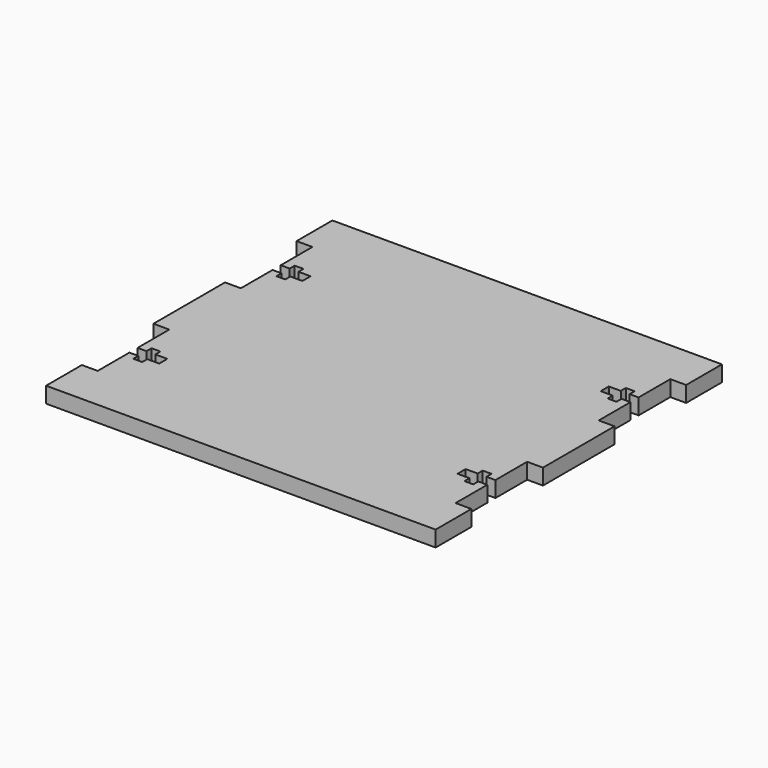
from build123d import *

# Parameters (mm, degrees)
F1_DEPTH = 4.4958


with BuildPart() as f1:
    # F0 (on Top) → F1 (new body)
    with BuildSketch(Plane.XY):
        Polygon((50.8, 50.8), (-50.8, 50.8), (-55.2958, 50.8), (-55.2958, 38.1), (-50.8, 38.1), (-50.8, 26.8478), (-48.26, 26.8478), (-48.26, 28.6385), (-45.75175, 28.6385), (-45.75175, 26.8478), (-42.3418, 26.8478), (-42.3418, 23.9522), (-45.75175, 23.9522), (-45.75175, 22.1615), (-48.26, 22.1615), (-48.26, 23.9522), (-50.8, 23.9522), (-50.8, 12.7), (-55.2958, 12.7), (-55.2958, 0), (-55.2958, -12.7), (-50.8, -12.7), (-50.8, -23.9522), (-48.26, -23.9522), (-48.26, -22.1615), (-45.75175, -22.1615), (-45.75175, -23.9522), (-42.3418, -23.9522), (-42.3418, -26.8478), (-45.75175, -26.8478), (-45.75175, -28.6385), (-48.26, -28.6385), (-48.26, -26.8478), (-50.8, -26.8478), (-50.8, -38.1), (-55.2958, -38.1), (-55.2958, -50.8), (-50.8, -50.8), (50.8, -50.8), (55.2958, -50.8), (55.2958, -38.1), (50.8, -38.1), (50.8, -26.8478), (48.26, -26.8478), (48.26, -28.6385), (45.75175, -28.6385), (45.75175, -26.8478), (42.3418, -26.8478), (42.3418, -23.9522), (45.75175, -23.9522), (45.75175, -22.1615), (48.26, -22.1615), (48.26, -23.9522), (50.8, -23.9522), (50.8, -12.7), (55.2958, -12.7), (55.2958, 0), (55.2958, 12.7), (50.8, 12.7), (50.8, 23.9522), (48.26, 23.9522), (48.26, 22.1615), (45.75175, 22.1615), (45.75175, 23.9522), (42.3418, 23.9522), (42.3418, 26.8478), (45.75175, 26.8478), (45.75175, 28.6385), (48.26, 28.6385), (48.26, 26.8478), (50.8, 26.8478), (50.8, 38.1), (55.2958, 38.1), (55.2958, 50.8), align=None)
    extrude(amount=F1_DEPTH)


solid = f1.part
